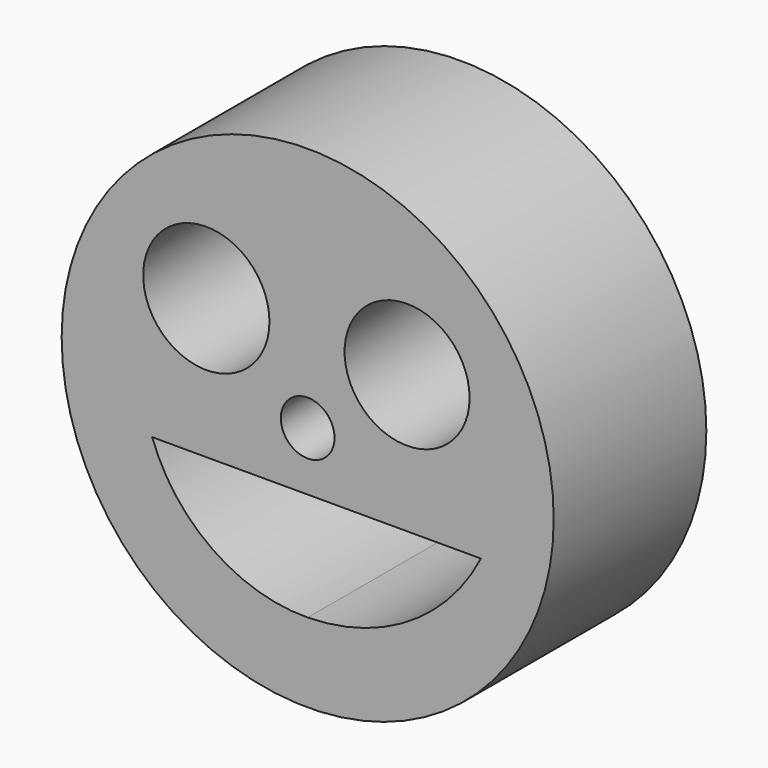
from build123d import *

# Parameters (mm, degrees)
F0_R     = 65.510801
F0_R_2   = 16.807576
F0_R_3   = 7.148787
F0_R_4   = 16.64603
F1_DEPTH = 50.8


with BuildPart() as f1:
    # F0 (on Front) → F1 (new body)
    with BuildSketch(Plane.XZ):
        Circle(F0_R)
        with BuildLine():
            ThreePointArc((0, -44.416323), (-25.338843, -36.664982), (-41.402828, -15.591571))
            Line((-41.402828, -15.591571), (46.119604, -15.591571))
            ThreePointArc((46.119604, -15.591571), (27.080426, -36.436945), (0, -44.416323))
        make_face(mode=Mode.SUBTRACT)
        with Locations((-26.990451, 21.618562)):
            Circle(F0_R_2, mode=Mode.SUBTRACT)
        Circle(F0_R_3, mode=Mode.SUBTRACT)
        with Locations((26.466364, 21.094479)):
            Circle(F0_R_4, mode=Mode.SUBTRACT)
    extrude(amount=-F1_DEPTH)


solid = f1.part
